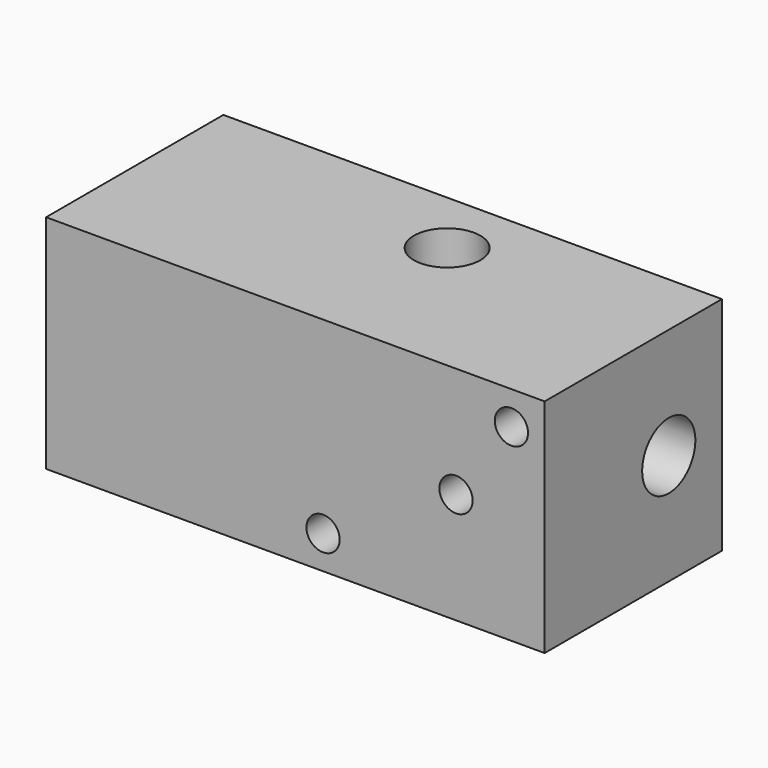
from build123d import *

# Parameters (mm, degrees)
F0_W          = 45
F0_H          = 20
F1_DEPTH      = 10
F1_DEPTH_BACK = 10
F2_R          = 3
F3_DEPTH      = 45.001
F4_R          = 1.5
F5_DEPTH      = 20.001
F6_R          = 1.5
F7_DEPTH      = 11.4029238886
F8_R          = 3
F9_DEPTH      = 4
F10_R         = 1.5
F11_DEPTH     = 3.4029238886


with BuildPart() as f1:
    # F0 (on Front) → F1 (new body, two sides)
    with BuildSketch(Plane.XZ) as f1_sk:
        Rectangle(F0_W, F0_H)
    extrude(amount=F1_DEPTH)
    extrude(f1_sk.sketch, amount=-F1_DEPTH_BACK)

    # F2 (on face) → F3 (cut, through all)
    with BuildSketch(Plane(origin=(-22.5, 0, 0), x_dir=(0, -1, 0), z_dir=(-1, 0, 0))):
        with Locations((-4, 0)):
            Circle(F2_R)
    extrude(amount=-F3_DEPTH, mode=Mode.SUBTRACT)

    # F4 (on face) → F5 (cut, through all)
    with BuildSketch(Plane.XZ.offset(10)):
        with Locations((19.5, 7)):
            Circle(F4_R)
        with Locations((2.5, -7)):
            Circle(F4_R)
    extrude(amount=-F5_DEPTH, mode=Mode.SUBTRACT)

    # F6 (on face) → F7 (cut, through all)
    with BuildSketch(Plane.XZ.offset(10)):
        with Locations((14.5, 0)):
            Circle(F6_R)
    extrude(amount=-F7_DEPTH, mode=Mode.SUBTRACT)

    # F8 (on face) → F9 (cut)
    with BuildSketch(Plane.XY.offset(10)):
        with Locations((2.5, 4)):
            Circle(F8_R)
    extrude(amount=-F9_DEPTH, mode=Mode.SUBTRACT)

    # F10 (on face) → F11 (cut, through all)
    with BuildSketch(Plane.XY.offset(6)):
        with Locations((2.5, 4)):
            Circle(F10_R)
    extrude(amount=-F11_DEPTH, mode=Mode.SUBTRACT)


solid = f1.part
